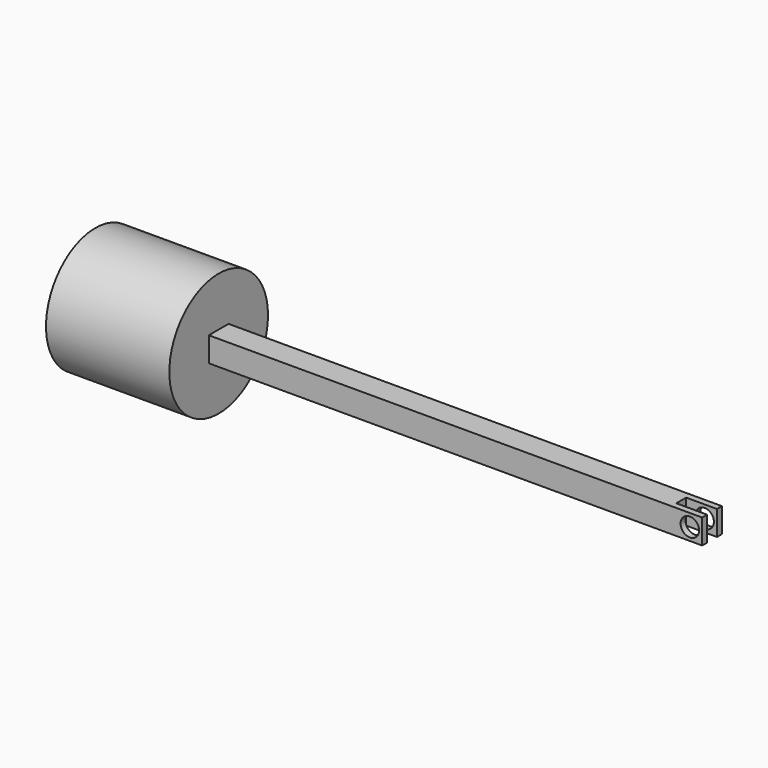
from build123d import *

# Parameters (mm, degrees)
F0_R     = 12.7
F1_DEPTH = 25.4
F2_W     = 101.6
F2_H     = 5.08
F3_DEPTH = 2.54
F4_R     = 1.905
F5_DEPTH = 15.241
F6_W     = 6.35
F6_H     = 2.54
F7_DEPTH = 15.241


with BuildPart() as f1:
    # F0 (on Right) → F1 (new body)
    with BuildSketch(Plane.YZ):
        Circle(F0_R)
    extrude(amount=F1_DEPTH)

    # F2 (on Top) → F3 (join, symmetric)
    with BuildSketch(Plane.XY):
        with Locations((76.2, 0)):
            Rectangle(F2_W, F2_H)
    extrude(amount=F3_DEPTH, both=True)

    # F4 (on face) → F5 (cut, through all)
    with BuildSketch(Plane.XZ.offset(2.54)):
        with Locations((124.46, 0)):
            Circle(F4_R)
    extrude(amount=-F5_DEPTH, mode=Mode.SUBTRACT)

    # F6 (on face) → F7 (cut, through all)
    with BuildSketch(Plane.XY.offset(2.54)):
        with Locations((123.825, 0)):
            Rectangle(F6_W, F6_H)
    extrude(amount=-F7_DEPTH, mode=Mode.SUBTRACT)


solid = f1.part
